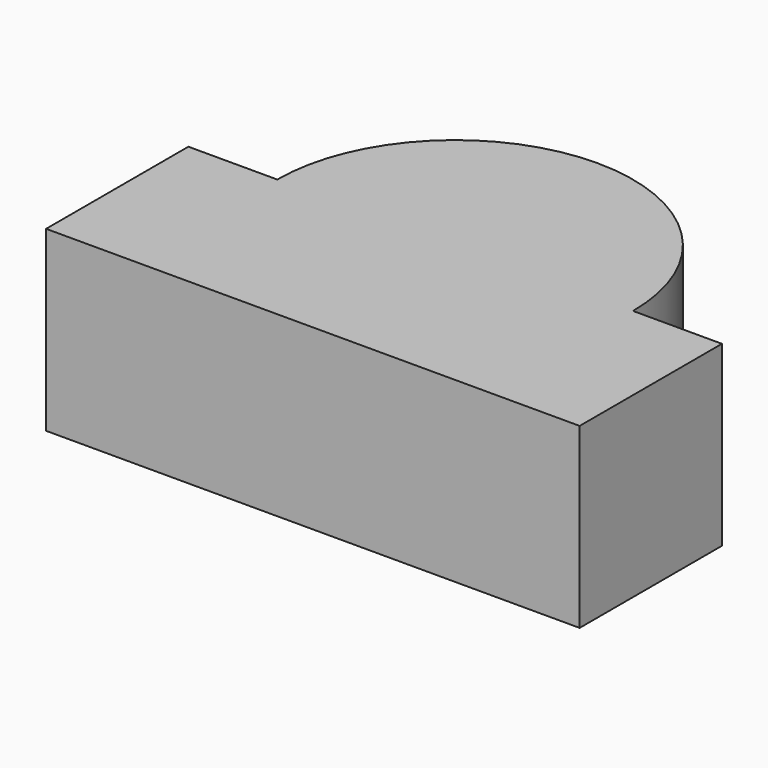
from build123d import *

# Parameters (mm, degrees)
F1_DEPTH = 1


with BuildPart() as f1:
    # F0 (on Top) → F1 (new body)
    with BuildSketch(Plane.XY):
        with BuildLine():
            Line((-1.5, 0), (0, 0))
            Line((0, 0), (0, 2))
            ThreePointArc((0, 2), (-0.707107, 1.707107), (-1, 1))
            Line((-1, 1), (-1.5, 1))
            Line((-1.5, 1), (-1.5, 0))
        make_face()
    extrude(amount=F1_DEPTH)

    # F2: F1 across face


with BuildPart() as f1_1:
    add(f1.part)
    add(f1.part.mirror(Plane(origin=(0, 1, 0.5), x_dir=(0, 1, 0), z_dir=(1, 0, 0))))


solid = f1_1.part
